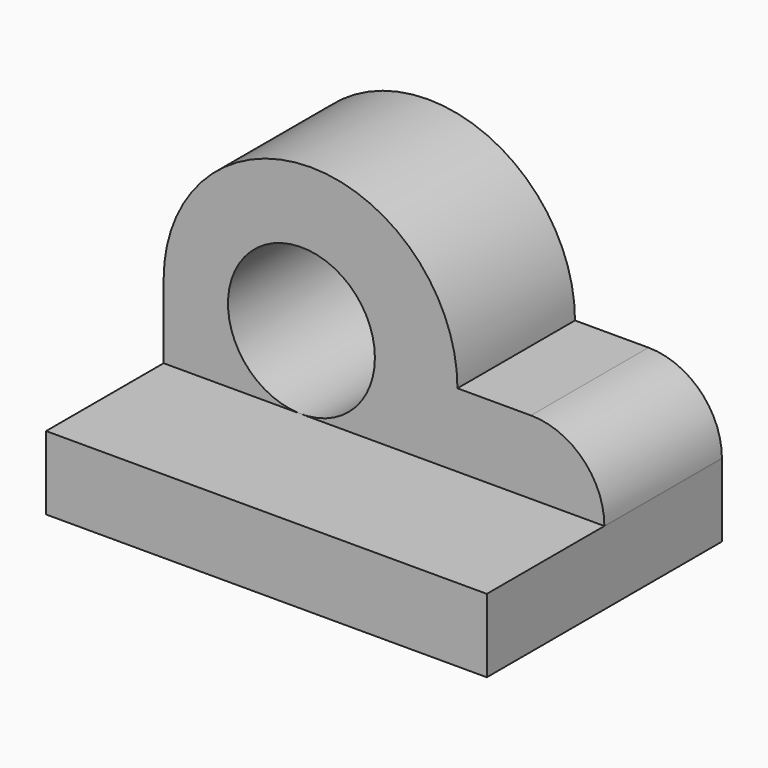
from build123d import *

# Parameters (mm, degrees)
F0_W     = 60
F0_H     = 40
F1_DEPTH = 10
F3_START = -20
F3_DEPTH = 20
F4_R     = 10
F5_DEPTH = 25


with BuildPart() as f1:
    # F0 (on Top) → F1 (new body)
    with BuildSketch(Plane.XY):
        with Locations((30, 20)):
            Rectangle(F0_W, F0_H)
    extrude(amount=F1_DEPTH)


with BuildPart() as f3:
    # F2 (on Front) → F3 (new body)
    with BuildSketch(Plane.XZ.offset(F3_START)):
        with BuildLine():
            Line((50, 20), (40, 20))
            ThreePointArc((40, 20), (20, 40), (0, 20))
            Line((0, 20), (0, 9.9481726065))
            Line((0, 9.9481726065), (60, 9.9481726065))
            Line((60, 9.9481726065), (60, 10))
            ThreePointArc((60, 10), (57.0710678119, 17.0710678119), (50, 20))
        make_face()
    extrude(amount=-F3_DEPTH)

    # F4 (on face) → F5 (cut)
    with BuildSketch(Plane.XZ.offset(-20)):
        with Locations((18.7617558986, 20)):
            Circle(F4_R)
    extrude(amount=-F5_DEPTH, mode=Mode.SUBTRACT)


solid = Compound([f1.part, f3.part])
